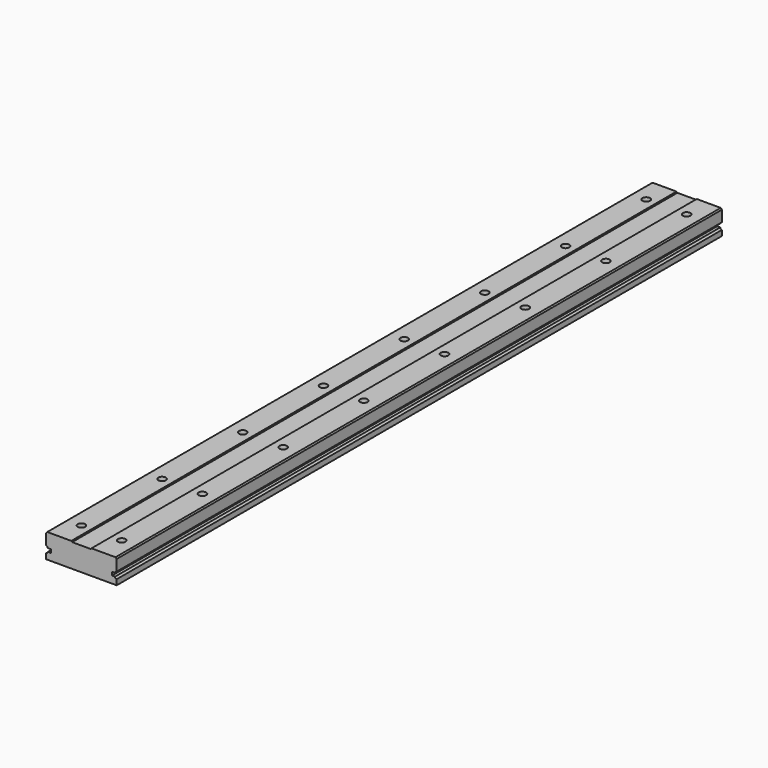
from build123d import *

# Parameters (mm, degrees)
F1_DEPTH = 450
F2_R     = 2.25
F3_DEPTH = 14.5
F4_R     = 4
F5_DEPTH = 6.2


with BuildPart() as f1:
    # F0 (on Front) → F1 (new body)
    with BuildSketch(Plane.XZ):
        with BuildLine():
            Line((-21, -7), (0, -7))
            Line((0, -7), (21, -7))
            Line((21, -7), (21, -3.8))
            ThreePointArc((21, -3.8), (20.292893, -3.507107), (20, -2.8))
            Line((20, -2.8), (18.2, -2.8))
            Line((18.2, -2.8), (18.2, -0.8))
            Line((18.2, -0.8), (20, -0.8))
            ThreePointArc((20, -0.8), (20.292893, -0.092893), (21, 0.2))
            Line((21, 0.2), (21, 6.792893))
            Line((21, 6.792893), (20.292893, 7.5))
            Line((20.292893, 7.5), (6, 7.5))
            Line((6, 7.5), (5.5, 7))
            Line((5.5, 7), (0, 7))
            Line((0, 7), (-5.5, 7))
            Line((-5.5, 7), (-6, 7.5))
            Line((-6, 7.5), (-20.292893, 7.5))
            Line((-20.292893, 7.5), (-21, 6.792893))
            Line((-21, 6.792893), (-21, 0.2))
            ThreePointArc((-21, 0.2), (-20.292893, -0.092893), (-20, -0.8))
            Line((-20, -0.8), (-18.2, -0.8))
            Line((-18.2, -0.8), (-18.2, -2.8))
            Line((-18.2, -2.8), (-20, -2.8))
            ThreePointArc((-20, -2.8), (-20.292893, -3.507107), (-21, -3.8))
            Line((-21, -3.8), (-21, -7))
        make_face()
    extrude(amount=-F1_DEPTH)

    # F2 (on face) → F3 (cut, through all)
    with BuildSketch(Plane.XY.offset(7.5)):
        with Locations((-12, 15)):
            Circle(F2_R)
        with Locations((-12, 75)):
            Circle(F2_R)
        with Locations((-12, 135)):
            Circle(F2_R)
        with Locations((-12, 375)):
            Circle(F2_R)
        with Locations((-12, 195)):
            Circle(F2_R)
        with Locations((-12, 255)):
            Circle(F2_R)
        with Locations((-12, 315)):
            Circle(F2_R)
        with Locations((-12, 435)):
            Circle(F2_R)
        with Locations((12, 15)):
            Circle(F2_R)
        with Locations((12, 435)):
            Circle(F2_R)
        with Locations((12, 315)):
            Circle(F2_R)
        with Locations((12, 75)):
            Circle(F2_R)
        with Locations((12, 135)):
            Circle(F2_R)
        with Locations((12, 195)):
            Circle(F2_R)
        with Locations((12, 255)):
            Circle(F2_R)
        with Locations((12, 375)):
            Circle(F2_R)
    extrude(amount=-F3_DEPTH, mode=Mode.SUBTRACT)

    # F4 (on face) → F5 (cut)
    with BuildSketch(Plane(origin=(0, 0, -7), x_dir=(1, 0, 0), z_dir=(0, 0, -1))):
        with Locations((-12, -435)):
            Circle(F4_R)
        with Locations((12, -435)):
            Circle(F4_R)
        with Locations((-12, -375)):
            Circle(F4_R)
        with Locations((12, -375)):
            Circle(F4_R)
        with Locations((-12, -315)):
            Circle(F4_R)
        with Locations((12, -315)):
            Circle(F4_R)
        with Locations((12, -255)):
            Circle(F4_R)
        with Locations((-12, -255)):
            Circle(F4_R)
        with Locations((-12, -195)):
            Circle(F4_R)
        with Locations((12, -195)):
            Circle(F4_R)
        with Locations((12, -135)):
            Circle(F4_R)
        with Locations((-12, -75)):
            Circle(F4_R)
        with Locations((-12, -135)):
            Circle(F4_R)
        with Locations((12, -75)):
            Circle(F4_R)
        with Locations((-12, -15)):
            Circle(F4_R)
        with Locations((12, -15)):
            Circle(F4_R)
    extrude(amount=-F5_DEPTH, mode=Mode.SUBTRACT)


solid = f1.part
